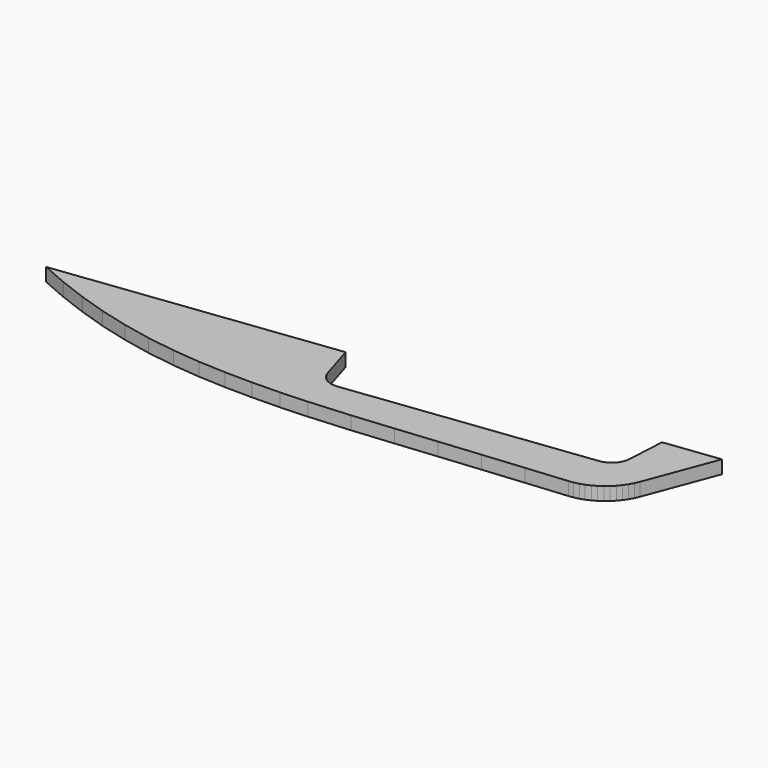
from build123d import *

# Parameters (mm, degrees)
PAD005_DEPTH = 5


with BuildPart() as part:
    # Sketch005 → Pad005 (new body)
    with BuildSketch(Plane.XY):
        with BuildLine():
            add(Edge.make_bspline(
                [(427.332322, -239.764326), (427.191211, -240.857937)],
                knots=[0, 0, 3.1257, 3.1257], degree=1))
            add(Edge.make_bspline(
                [(427.191211, -240.857937), (426.873711, -241.880992)],
                knots=[0, 0, 3.036445, 3.036445], degree=1))
            add(Edge.make_bspline(
                [(426.873711, -241.880992), (426.4151, -242.86877)],
                knots=[0, 0, 3.08707, 3.08707], degree=1))
            add(Edge.make_bspline(
                [(426.4151, -242.86877), (425.815377, -243.785992)],
                knots=[0, 0, 3.106445, 3.106445], degree=1))
            add(Edge.make_bspline(
                [(425.815377, -243.785992), (425.074544, -244.562104)],
                knots=[0, 0, 3.041381, 3.041381], degree=1))
            add(Edge.make_bspline(
                [(425.074544, -244.562104), (424.227877, -245.232381)],
                knots=[0, 0, 3.061046, 3.061046], degree=1))
            add(Edge.make_bspline(
                [(424.227877, -245.232381), (423.275377, -245.761548)],
                knots=[0, 0, 3.088689, 3.088689], degree=1))
            add(Edge.make_bspline(
                [(423.275377, -245.761548), (422.252322, -246.149604)],
                knots=[0, 0, 3.101612, 3.101612], degree=1))
            add(Edge.make_bspline(
                [(422.252322, -246.149604), (421.193989, -246.36127)],
                knots=[0, 0, 3.059412, 3.059412], degree=1))
            add(Edge.make_bspline(
                [(330.671213, -257.47377), (421.193989, -246.36127)],
                knots=[0, 0, 258.526227, 258.526227], degree=1))
            add(Edge.make_bspline(
                [(330.671213, -257.47377), (329.577602, -257.509048)],
                knots=[0, 0, 3.101612, 3.101612], degree=1))
            add(Edge.make_bspline(
                [(329.577602, -257.509048), (328.519268, -257.403214)],
                knots=[0, 0, 3.014963, 3.014963], degree=1))
            add(Edge.make_bspline(
                [(328.519268, -257.403214), (327.460935, -257.120992)],
                knots=[0, 0, 3.104835, 3.104835], degree=1))
            add(Edge.make_bspline(
                [(327.460935, -257.120992), (326.473157, -256.662381)],
                knots=[0, 0, 3.08707, 3.08707], degree=1))
            add(Edge.make_bspline(
                [(326.473157, -256.662381), (325.555935, -256.097937)],
                knots=[0, 0, 3.052868, 3.052868], degree=1))
            add(Edge.make_bspline(
                [(325.555935, -256.097937), (324.744546, -255.357103)],
                knots=[0, 0, 3.114482, 3.114482], degree=1))
            add(Edge.make_bspline(
                [(324.744546, -255.357103), (324.074268, -254.510437)],
                knots=[0, 0, 3.061046, 3.061046], degree=1))
            add(Edge.make_bspline(
                [(324.074268, -254.510437), (323.545102, -253.593214)],
                knots=[0, 0, 3.001666, 3.001666], degree=1))
            add(Edge.make_bspline(
                [(323.545102, -253.593214), (323.121768, -252.570159)],
                knots=[0, 0, 3.138471, 3.138471], degree=1))
            add(Edge.make_bspline(
                [(318.923713, -238.776548), (323.121768, -252.570159)],
                knots=[0, 0, 40.870772, 40.870772], degree=1))
            add(Edge.make_bspline(
                [(215.559826, -251.476548), (318.923713, -238.776548)],
                knots=[0, 0, 295.20332, 295.20332], degree=1))
            add(Edge.make_bspline(
                [(215.559826, -251.476548), (225.578715, -255.815714)],
                knots=[0, 0, 30.949152, 30.949152], degree=1))
            add(Edge.make_bspline(
                [(225.578715, -255.815714), (235.844548, -259.69627)],
                knots=[0, 0, 31.109645, 31.109645], degree=1))
            add(Edge.make_bspline(
                [(235.844548, -259.69627), (246.28677, -263.082936)],
                knots=[0, 0, 31.117841, 31.117841], degree=1))
            add(Edge.make_bspline(
                [(246.28677, -263.082936), (256.905381, -265.869881)],
                knots=[0, 0, 31.119447, 31.119447], degree=1))
            add(Edge.make_bspline(
                [(256.905381, -265.869881), (267.629825, -268.092381)],
                knots=[0, 0, 31.045934, 31.045934], degree=1))
            add(Edge.make_bspline(
                [(267.629825, -268.092381), (278.460103, -269.679881)],
                knots=[0, 0, 31.028052, 31.028052], degree=1))
            add(Edge.make_bspline(
                [(278.460103, -269.679881), (288.761214, -270.632381)],
                knots=[0, 0, 29.324563, 29.324563], degree=1))
            add(Edge.make_bspline(
                [(288.761214, -270.632381), (299.097602, -271.12627)],
                knots=[0, 0, 29.333428, 29.333428], degree=1))
            add(Edge.make_bspline(
                [(299.097602, -271.12627), (309.433991, -271.232103)],
                knots=[0, 0, 29.301536, 29.301536], degree=1))
            add(Edge.make_bspline(
                [(309.433991, -271.232103), (319.77038, -271.020436)],
                knots=[0, 0, 29.306143, 29.306143], degree=1))
            add(Edge.make_bspline(
                [(319.77038, -271.020436), (330.106768, -270.526547)],
                knots=[0, 0, 29.333428, 29.333428], degree=1))
            add(Edge.make_bspline(
                [(330.106768, -270.526547), (345.417324, -269.397659)],
                knots=[0, 0, 43.517812, 43.517812], degree=1))
            add(Edge.make_bspline(
                [(345.417324, -269.397659), (360.727879, -267.95127)],
                knots=[0, 0, 43.593233, 43.593233], degree=1))
            add(Edge.make_bspline(
                [(360.727879, -267.95127), (376.038434, -266.434325)],
                knots=[0, 0, 43.612498, 43.612498], degree=1))
            add(Edge.make_bspline(
                [(376.038434, -266.434325), (391.348989, -264.952659)],
                knots=[0, 0, 43.602752, 43.602752], degree=1))
            add(Edge.make_bspline(
                [(391.348989, -264.952659), (406.659544, -263.50627)],
                knots=[0, 0, 43.593233, 43.593233], degree=1))
            add(Edge.make_bspline(
                [(406.659544, -263.50627), (421.9701, -262.095159)],
                knots=[0, 0, 43.583942, 43.583942], degree=1))
            add(Edge.make_bspline(
                [(421.9701, -262.095159), (423.804544, -261.848214)],
                knots=[0, 0, 5.246904, 5.246904], degree=1))
            add(Edge.make_bspline(
                [(423.804544, -261.848214), (425.603711, -261.424881)],
                knots=[0, 0, 5.239275, 5.239275], degree=1))
            add(Edge.make_bspline(
                [(425.603711, -261.424881), (427.3676, -260.825159)],
                knots=[0, 0, 5.281098, 5.281098], degree=1))
            add(Edge.make_bspline(
                [(427.3676, -260.825159), (429.060933, -260.049048)],
                knots=[0, 0, 5.280152, 5.280152], degree=1))
            add(Edge.make_bspline(
                [(429.060933, -260.049048), (430.683711, -259.131825)],
                knots=[0, 0, 5.283938, 5.283938], degree=1))
            add(Edge.make_bspline(
                [(430.683711, -259.131825), (432.235933, -258.073492)],
                knots=[0, 0, 5.325411, 5.325411], degree=1))
            add(Edge.make_bspline(
                [(432.235933, -258.073492), (433.647044, -256.909325)],
                knots=[0, 0, 5.185557, 5.185557], degree=1))
            add(Edge.make_bspline(
                [(433.647044, -256.909325), (434.952322, -255.56877)],
                knots=[0, 0, 5.303772, 5.303772], degree=1))
            add(Edge.make_bspline(
                [(434.952322, -255.56877), (436.151766, -254.122381)],
                knots=[0, 0, 5.32635, 5.32635], degree=1))
            add(Edge.make_bspline(
                [(436.151766, -254.122381), (437.174822, -252.605437)],
                knots=[0, 0, 5.186521, 5.186521], degree=1))
            add(Edge.make_bspline(
                [(437.174822, -252.605437), (438.092044, -250.947381)],
                knots=[0, 0, 5.37122, 5.37122], degree=1))
            add(Edge.make_bspline(
                [(438.092044, -250.947381), (438.832877, -249.254048)],
                knots=[0, 0, 5.239275, 5.239275], degree=1))
            add(Edge.make_bspline(
                [(448.78121, -222.830993), (438.832877, -249.254048)],
                knots=[0, 0, 80.032806, 80.032806], degree=1))
            add(Edge.make_bspline(
                [(428.108433, -225.370993), (448.78121, -222.830993)],
                knots=[0, 0, 59.040664, 59.040664], degree=1))
            add(Edge.make_bspline(
                [(427.332322, -239.764326), (428.108433, -225.370993)],
                knots=[0, 0, 40.859271, 40.859271], degree=1))
        make_face()
    extrude(amount=PAD005_DEPTH)


solid = part.part
